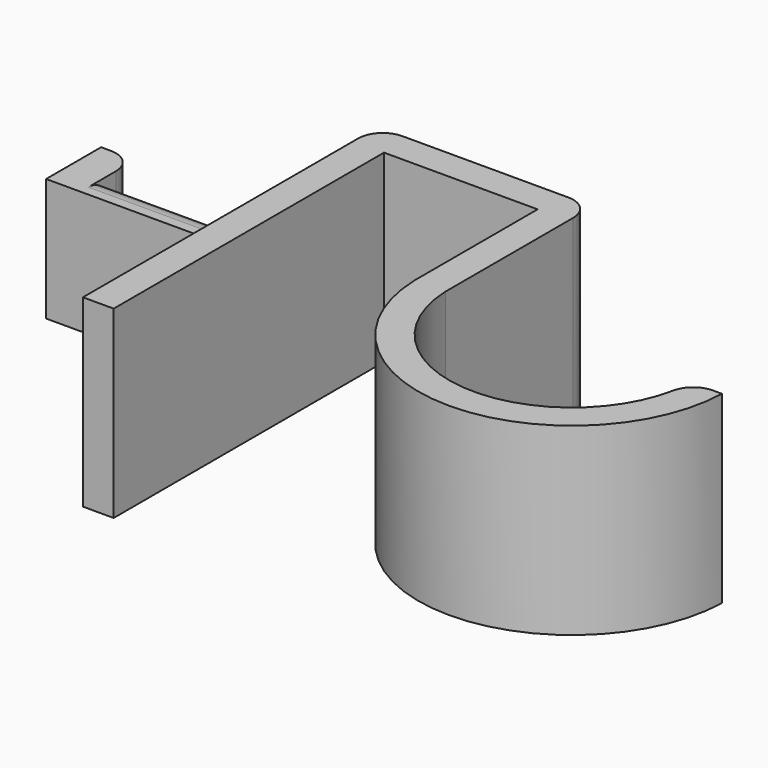
from build123d import *

# Parameters (mm, degrees)
F1_DEPTH = 38.1
F2_R     = 5.08
F3_R     = 5.08
F4_W     = 7.112
F4_H     = 25.4
F5_DEPTH = 38.1
F6_W     = 7.112
F6_H     = 25.4
F7_DEPTH = 7.112
F8_R     = 5.08


with BuildPart() as f1:
    # F0 (on Top) → F1 (new body)
    with BuildSketch(Plane.XY):
        with BuildLine():
            Line((0, 76.2), (0, 0))
            Line((0, 0), (6.35, 0))
            Line((6.35, 0), (6.35, 69.85))
            Line((6.35, 69.85), (38.1, 69.85))
            Line((38.1, 69.85), (38.1, 38.1))
            ThreePointArc((38.1, 38.1), (69.85, 7.30006), (101.6, 38.1))
            Line((101.6, 38.1), (95.25, 38.1))
            ThreePointArc((95.25, 38.1), (69.85, 13.646399), (44.45, 38.1))
            Line((44.45, 38.1), (44.45, 76.2))
            Line((44.45, 76.2), (0, 76.2))
        make_face()
    extrude(amount=F1_DEPTH)

    # F2
    f2_edges = [f1.edges().sort_by_distance(p)[0] for p in [
        (95.25, 38.1, 19.05),
    ]]
    fillet(f2_edges, radius=F2_R)

    # F3
    f3_edges = [f1.edges().sort_by_distance(p)[0] for p in [
        (44.45, 76.2, 19.05),
        (0, 76.2, 19.05),
    ]]
    fillet(f3_edges, radius=F3_R)

    # F4 (on face) → F5 (join)
    with BuildSketch(Plane(origin=(0, 0, 0), x_dir=(0, -1, 0), z_dir=(-1, 0, 0))):
        with Locations((-41.656, 19.05)):
            Rectangle(F4_W, F4_H)
    extrude(amount=F5_DEPTH)

    # F6 (on face) → F7 (join)
    with BuildSketch(Plane(origin=(0, 45.212, 0), x_dir=(-1, 0, 0), z_dir=(0, 1, 0))):
        with Locations((34.544, 19.05)):
            Rectangle(F6_W, F6_H)
    extrude(amount=F7_DEPTH)

    # F8
    f8_edges = [f1.edges().sort_by_distance(p)[0] for p in [
        (-15.494, 45.212, 31.75),
        (-15.494, 45.212, 6.35),
        (-30.988, 52.324, 19.05),
    ]]
    fillet(f8_edges, radius=F8_R)


solid = f1.part
